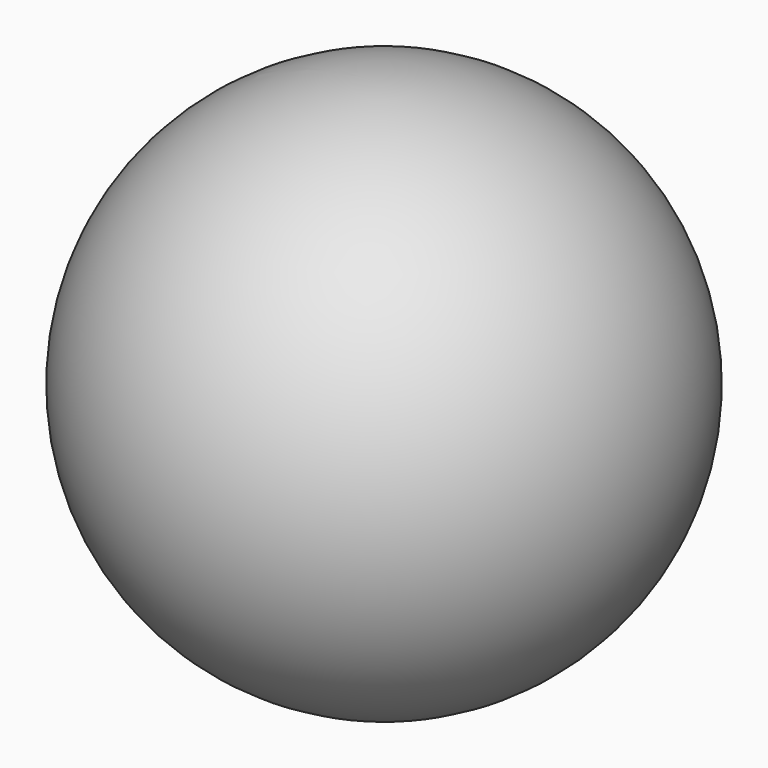
from build123d import *

# Parameters (mm, degrees)
F3_D     = 6.5
F3_DEPTH = 33
F3_TIP   = 1.9527970118


with BuildPart() as f1:
    # F0 (on Front) → F1 (revolve)
    with BuildSketch(Plane.XZ):
        with BuildLine():
            Line((0, 28), (0, 33))
            ThreePointArc((0, 33), (-33, 0), (0, -33))
            Line((0, -33), (0, -28))
            ThreePointArc((0, -28), (-28, 0), (0, 28))
        make_face()
    revolve(axis=Axis((0, 0, 30.5), (0, 0, -1)))

    # F3 (one way)
    with BuildSketch(Plane.XZ):
        with Locations((0, 0)):
            Circle(F3_D / 2)
    extrude(amount=-F3_DEPTH, mode=Mode.SUBTRACT)
    with Locations(Plane.XZ):
        with Locations((0, 0)):
            with Locations((0, 0, -(F3_DEPTH + F3_TIP / 2))):  # 118° drill point
                Cone(0, F3_D / 2, F3_TIP, mode=Mode.SUBTRACT)


solid = f1.part
